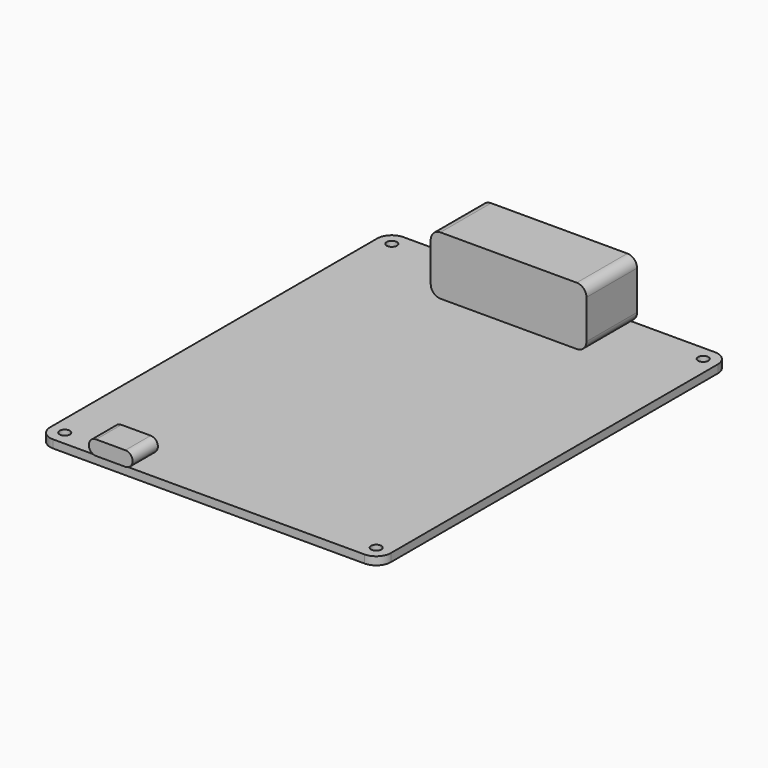
from build123d import *

# Parameters (mm, degrees)
PAD006_DEPTH = 13
PAD007_DEPTH = 6.5
SKETCH005_R  = 1.05
PAD005_DEPTH = 1.65


with BuildPart() as connectorbody:
    # Sketch006 → Pad006 (new body)
    with BuildSketch(Plane.XZ):
        with BuildLine():
            Line((-14, 6), (14, 6))
            ThreePointArc((16, 4), (15.414214, 5.414214), (14, 6))
            Line((16, 4), (16, -4))
            ThreePointArc((14, -6), (15.414214, -5.414214), (16, -4))
            Line((14, -6), (-14, -6))
            ThreePointArc((-16, -4), (-15.414214, -5.414214), (-14, -6))
            Line((-16, -4), (-16, 4))
            ThreePointArc((-14, 6), (-15.414214, 5.414214), (-16, 4))
        make_face()
    extrude(amount=PAD006_DEPTH)


with BuildPart() as connectorbody_1:
    # Body005 placement: moved
    add(connectorbody.part.moved(Location((0, 45, 7.65))))


with BuildPart() as usbbody:
    # Sketch007 → Pad007 (new body)
    with BuildSketch(Plane.XZ):
        with BuildLine():
            ThreePointArc((-3, 1.5), (-4.5, 0), (-3, -1.5))
            Line((-3, -1.5), (3, -1.5))
            ThreePointArc((3, -1.5), (4.5, 0), (3, 1.5))
            Line((-3, 1.5), (3, 1.5))
        make_face()
    extrude(amount=PAD007_DEPTH)


with BuildPart() as usbbody_1:
    # Body006 placement: moved
    add(usbbody.part.moved(Location((-20, -38.7, 3.15))))


with BuildPart() as boardpart:
    # Sketch005 → Pad005 (new body)
    with BuildSketch(Plane.XY):
        with BuildLine():
            Line((-32, 45), (32, 45))
            ThreePointArc((35, 42), (34.12132, 44.12132), (32, 45))
            Line((35, 42), (35, -42))
            ThreePointArc((32, -45), (34.12132, -44.12132), (35, -42))
            Line((32, -45), (-32, -45))
            ThreePointArc((-35, -42), (-34.12132, -44.12132), (-32, -45))
            Line((-35, -42), (-35, 42))
            ThreePointArc((-32, 45), (-34.12132, 44.12132), (-35, 42))
        make_face()
        with Locations((-32, -42)):
            Circle(SKETCH005_R, mode=Mode.SUBTRACT)
        with Locations((32, -42)):
            Circle(SKETCH005_R, mode=Mode.SUBTRACT)
        with Locations((32, 42)):
            Circle(SKETCH005_R, mode=Mode.SUBTRACT)
        with Locations((-32, 42)):
            Circle(SKETCH005_R, mode=Mode.SUBTRACT)
    extrude(amount=PAD005_DEPTH)

    # Fusion: union ConnectorBody, UsbBody
    add(connectorbody_1.part)
    add(usbbody_1.part)


with BuildPart() as boardpart_1:
    # Fusion placement: moved
    add(boardpart.part.moved(Location((0, 0, 4.05))))


solid = boardpart_1.part
